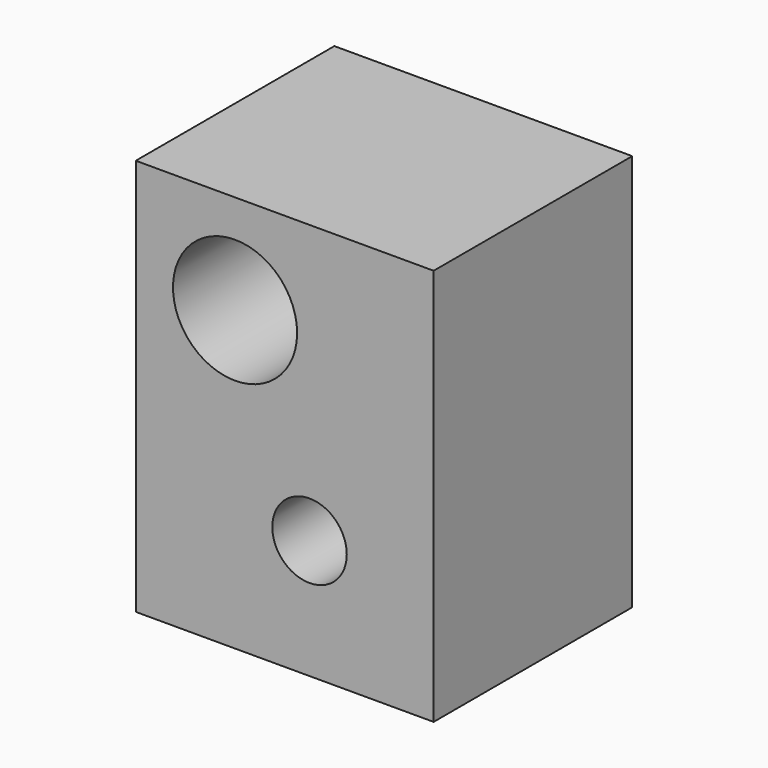
from build123d import *

# Parameters (mm, degrees)
F0_W     = 60
F0_H     = 80
F1_DEPTH = 25
F2_R     = 12.5
F2_R_2   = 7.5
F3_DEPTH = 50


with BuildPart() as f1:
    # F0 (on Front) → F1 (new body, symmetric)
    with BuildSketch(Plane.XZ):
        Rectangle(F0_W, F0_H)
    extrude(amount=F1_DEPTH, both=True)

    # F2 (on face) → F3 (cut, through all)
    with BuildSketch(Plane.XZ.offset(25)):
        with Locations((-10, 20)):
            Circle(F2_R)
        with Locations((5, -16)):
            Circle(F2_R_2)
    extrude(amount=-F3_DEPTH, mode=Mode.SUBTRACT)


solid = f1.part
